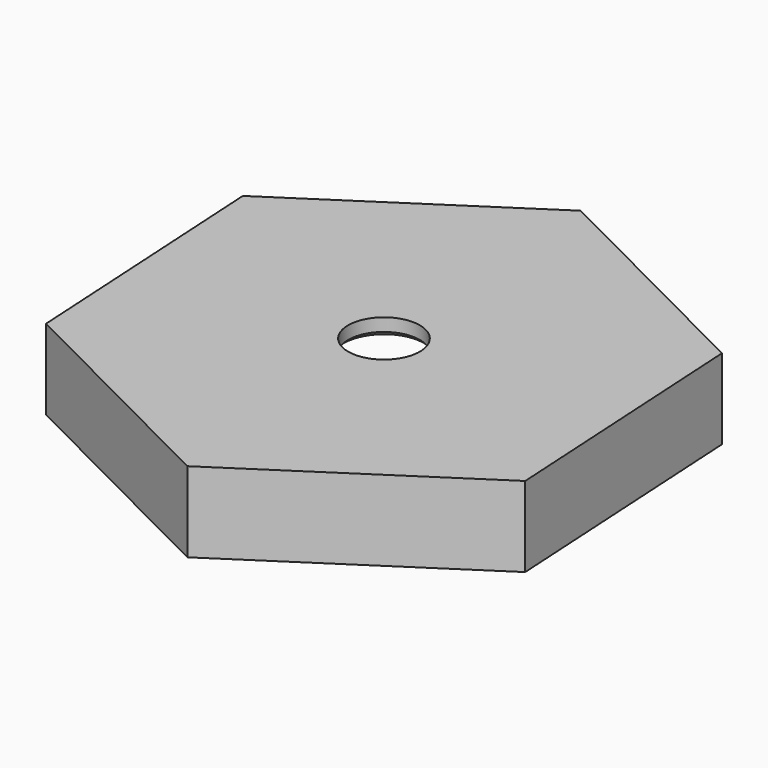
from build123d import *

# Parameters (mm, degrees)
F4_T           = -3
F5_D           = 12.5
F5_DEPTH       = 5
F5_START       = 11
F5_CSINK_D     = 14
F5_CSINK_ANGLE = 90
F5_TIP         = 3.7553788689


with BuildPart() as f2:
    # F2: sweep along a path in F1
    with BuildLine(Plane.XZ) as f2_path:
        Line((0, 0), (0, 14))
    # F0 (on Top) → F2 (sweep)
    with BuildSketch(Plane.XY):
        Polygon((2.618910053, -46.1880215352), (41.3094550265, -20.8259681314), (38.6905449735, 25.3620534037), (-2.618910053, 46.1880215352), (-41.3094550265, 20.8259681314), (-38.6905449735, -25.3620534037), align=None)
    sweep(path=f2_path.line)

    # F4
    f4_openings = [f2.faces().sort_by_distance(p)[0] for p in [
        (0, 0, 0),
    ]]
    offset(amount=F4_T, openings=f4_openings)

    # F5
    # its depths count from where the whole tool has entered the part; down to there all is cleared
    with Locations(Plane(origin=(0, 0, 0), x_dir=(1, 0, 0), z_dir=(0, 0, -1))):
        with Locations((0, 0)):
            Hole(F5_CSINK_D / 2, depth=F5_START)
    with Locations(Plane(origin=(0, 0, 0), x_dir=(1, 0, 0), z_dir=(0, 0, -1)).offset(-F5_START)):
        with Locations((0, 0)):
            CounterSinkHole(F5_D / 2, F5_CSINK_D / 2, depth=F5_DEPTH, counter_sink_angle=F5_CSINK_ANGLE)
            with Locations((0, 0, -(F5_DEPTH + F5_TIP / 2))):  # 118° drill point
                Cone(0, F5_D / 2, F5_TIP, mode=Mode.SUBTRACT)


solid = f2.part
